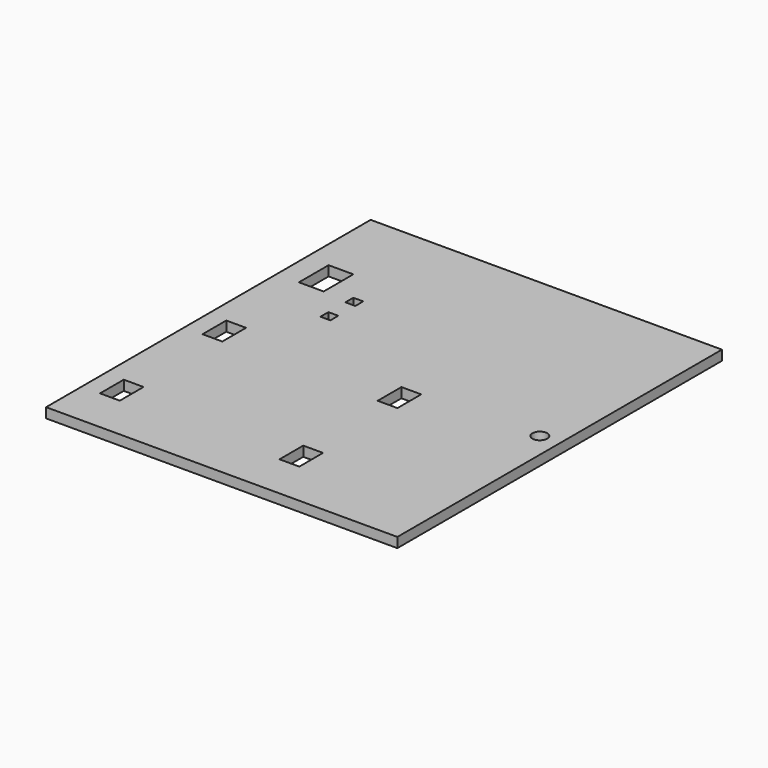
from build123d import *

# Parameters (mm, degrees)
F0_W     = 71
F0_H     = 82
F0_W_2   = 4
F0_H_2   = 6
F0_W_3   = 2
F0_H_3   = 2
F0_W_4   = 5
F0_H_4   = 7.5
F0_R     = 1.5
F1_DEPTH = 2


with BuildPart() as f1:
    # F0 (on Top) → F1 (new body)
    with BuildSketch(Plane.XY):
        Rectangle(F0_W, F0_H)
        with Locations((-29.8, -29)):
            Rectangle(F0_W_2, F0_H_2, mode=Mode.SUBTRACT)
        with Locations((-29.8, -3.1)):
            Rectangle(F0_W_2, F0_H_2, mode=Mode.SUBTRACT)
        with Locations((6.4, -28.9)):
            Rectangle(F0_W_2, F0_H_2, mode=Mode.SUBTRACT)
        with Locations((6, -3.6)):
            Rectangle(F0_W_2, F0_H_2, mode=Mode.SUBTRACT)
        with Locations((-20, 11.2)):
            Rectangle(F0_W_3, F0_H_3, mode=Mode.SUBTRACT)
        with Locations((-20, 17.5)):
            Rectangle(F0_W_3, F0_H_3, mode=Mode.SUBTRACT)
        with Locations((-28.5, 21)):
            Rectangle(F0_W_4, F0_H_4, mode=Mode.SUBTRACT)
        with Locations((31.5, 0)):
            Circle(F0_R, mode=Mode.SUBTRACT)
    extrude(amount=F1_DEPTH)


solid = f1.part
